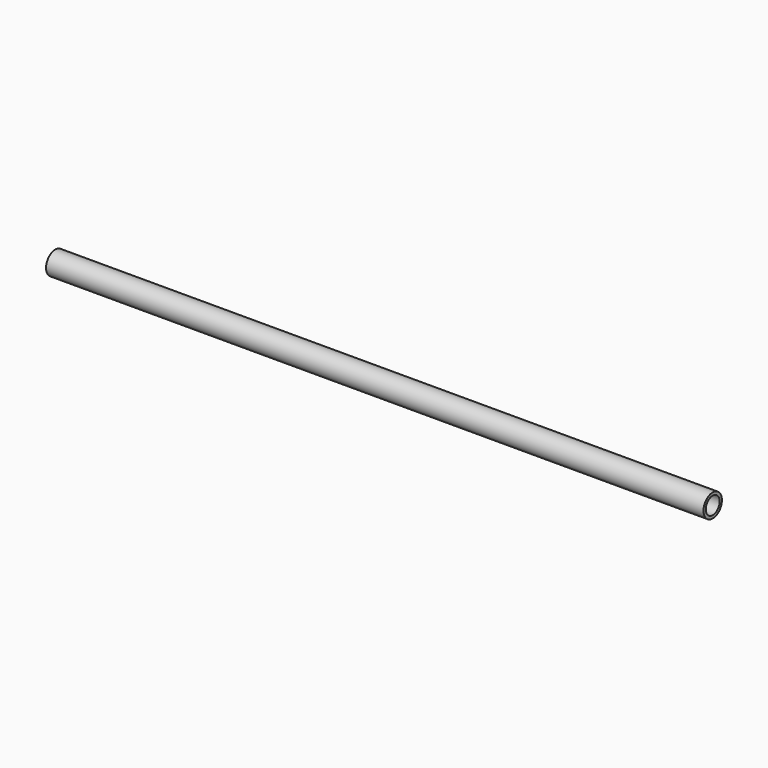
from build123d import *

# Parameters (mm, degrees)
F0_R     = 12.7
F2_DEPTH = 362.63707
F3_D     = 19.05


with BuildPart() as f2:
    # F0 (on Right) → F2 (new body)
    with BuildSketch(Plane.YZ):
        Circle(F0_R)
    extrude(amount=F2_DEPTH)

    # F3 (through all)
    with Locations(Plane(origin=(0, 0, 0), x_dir=(0, 1, 0), z_dir=(-1, 0, 0))):
        with Locations((0, 0)):
            Hole(F3_D / 2)

    # F4: F2 across plane


with BuildPart() as f2_1:
    add(f2.part)
    add(f2.part.mirror(Plane.YZ))


solid = f2_1.part
